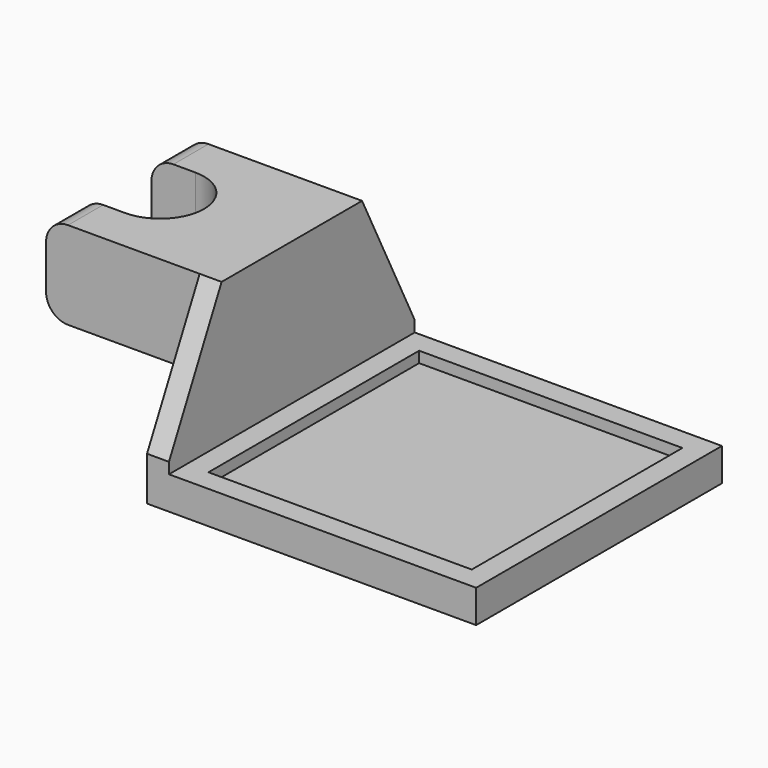
from build123d import *

# Parameters (mm, degrees)
F1_DEPTH  = 25.4
F2_R      = 6.35
F4_W      = 6.35
F4_H      = 88.9
F5_DEPTH  = 12.7
F6_W      = 6.35
F6_H      = 50.8
F5_FACE_W = 6.35
F5_FACE_H = 88.9
F8_W      = 88.9
F8_H      = 88.9
F9_DEPTH  = 6.35
F10_W     = 88.9
F10_H     = 88.9
F10_W_2   = 76.2
F10_H_2   = 76.2
F11_DEPTH = 3.175


with BuildPart() as f1:
    # F0 (on Top) → F1 (new body)
    with BuildSketch(Plane.XY):
        with BuildLine():
            ThreePointArc((0, 12.7), (12.7, 0), (0, -12.7))
            Line((0, -12.7), (-12.7, -12.7))
            Line((-12.7, -12.7), (-12.7, -25.4))
            Line((-12.7, -25.4), (38.1, -25.4))
            Line((38.1, -25.4), (38.1, 25.4))
            Line((38.1, 25.4), (-12.7, 25.4))
            Line((-12.7, 25.4), (-12.7, 12.7))
            Line((-12.7, 12.7), (0, 12.7))
        make_face()
    extrude(amount=F1_DEPTH)

    # F2
    f2_edges = [f1.edges().sort_by_distance(p)[0] for p in [
        (-12.7, -19.05, 25.4),
        (-12.7, 19.05, 25.4),
        (-12.7, -19.05, 0),
        (-12.7, 19.05, 0),
    ]]
    fillet(f2_edges, radius=F2_R)



with BuildPart() as f5:
    # F4 (on offset) → F5 (new body)
    with BuildSketch(Plane.XY.offset(-25.4)):
        with Locations((34.925, 0)):
            Rectangle(F4_W, F4_H)
    extrude(amount=F5_DEPTH)


with BuildPart() as f1_1:
    add(f1.part)

    add(f5.part)  # F7 merges F5
    # F6 (on face) → F7 section 0
    with BuildSketch(Plane.XY.offset(25.4)):
        with Locations((34.925, 0)):
            Rectangle(F6_W, F6_H)
    # F5_face (on face) → F7 section 1
    with BuildSketch(Plane(origin=(34.925, 0, -12.7), x_dir=(1, 0, 0), z_dir=(0, 0, 1))):
        Rectangle(F5_FACE_W, F5_FACE_H)
    loft()

    # F8 (on face) → F9 (join)
    with BuildSketch(Plane(origin=(0, 0, -25.4), x_dir=(1, 0, 0), z_dir=(0, 0, -1))):
        with Locations((82.55, 0)):
            Rectangle(F8_W, F8_H)
    extrude(amount=-F9_DEPTH)

    # F10 (on face) → F11 (join)
    with BuildSketch(Plane.XY.offset(-19.05)):
        with Locations((82.55, 0)):
            Rectangle(F10_W, F10_H)
        with Locations((82.55, 0)):
            Rectangle(F10_W_2, F10_H_2, mode=Mode.SUBTRACT)
    extrude(amount=F11_DEPTH)


solid = f1_1.part
